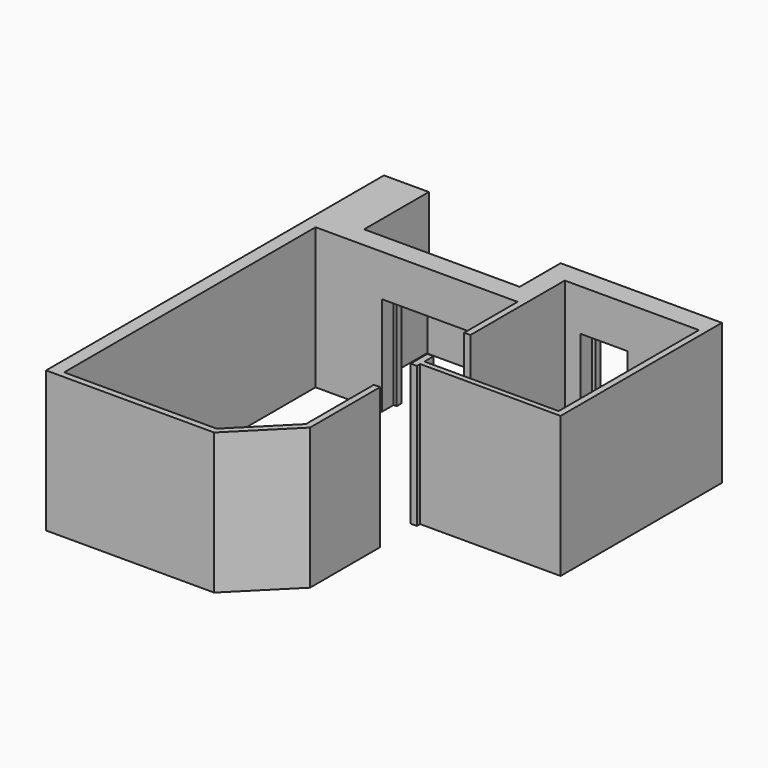
from build123d import *

# Parameters (mm, degrees)
F2_DEPTH = 2700
F3_DEPTH = 1100
F5_DEPTH = 800
F6_W     = 1500
F6_H     = 120
F6_W_2   = 780
F7_DEPTH = 60


with BuildPart() as f2:
    # F1 (on Top) → F2 (new body)
    with BuildSketch(Plane.XY):
        Polygon((0, -6020), (0, 0), (1270, 0), (1270, 280), (1330, 280), (1330, 400), (610, 400), (610, 1950), (-250, 1950), (-250, -6140), (2969.705627, -6140), (3990, -5119.705627), (3990, -3440), (3870, -3440), (3870, -5070), (2920, -6020), align=None)
        Polygon((2890, 280), (2890, 0), (3870, 0), (3870, -1280), (3990, -1280), (3990, 980), (4290, 980), (4290, 1260), (4350, 1260), (4350, 1380), (3590, 1380), (3590, 400), (2830, 400), (2830, 280), align=None)
        Polygon((6560, -2380), (3990, -2380), (3990, -2160), (3870, -2160), (3870, -2560), (3990, -2560), (3990, -2482.772608), (6680, -2482.772608), (6680, 1380), (5130, 1380), (5130, 1260), (5190, 1260), (5190, 980), (6560, 980), align=None)
    extrude(amount=F2_DEPTH)

    # F4 (on face) → F5 (join)
    with BuildSketch(Plane.XY.offset(2700)):
        Polygon((1330, 400), (1330, 280), (1270, 280), (1270, 0), (2890, 0), (2890, 280), (2830, 280), (2830, 400), align=None)
        Polygon((4350, 1380), (4350, 1260), (4290, 1260), (4290, 980), (5190, 980), (5190, 1260), (5130, 1260), (5130, 1380), align=None)
    extrude(amount=-F5_DEPTH)

    # F6 (on face) → F7 (join)
    with BuildSketch(Plane(origin=(0, 0, 1900), x_dir=(1, 0, 0), z_dir=(0, 0, -1))):
        with Locations((2080, -340)):
            Rectangle(F6_W, F6_H)
        with Locations((4740, -1320)):
            Rectangle(F6_W_2, F6_H)
    extrude(amount=F7_DEPTH)


with BuildPart() as f3:
    # F1 (on Top) → F3 (new body)
    with BuildSketch(Plane.XY):
        Polygon((3540, 1380), (3590, 1380), (3590, 1950), (620, 1950), (620, 1900), (3540, 1900), align=None)
    extrude(amount=F3_DEPTH)


solid = Compound([f2.part, f3.part])
